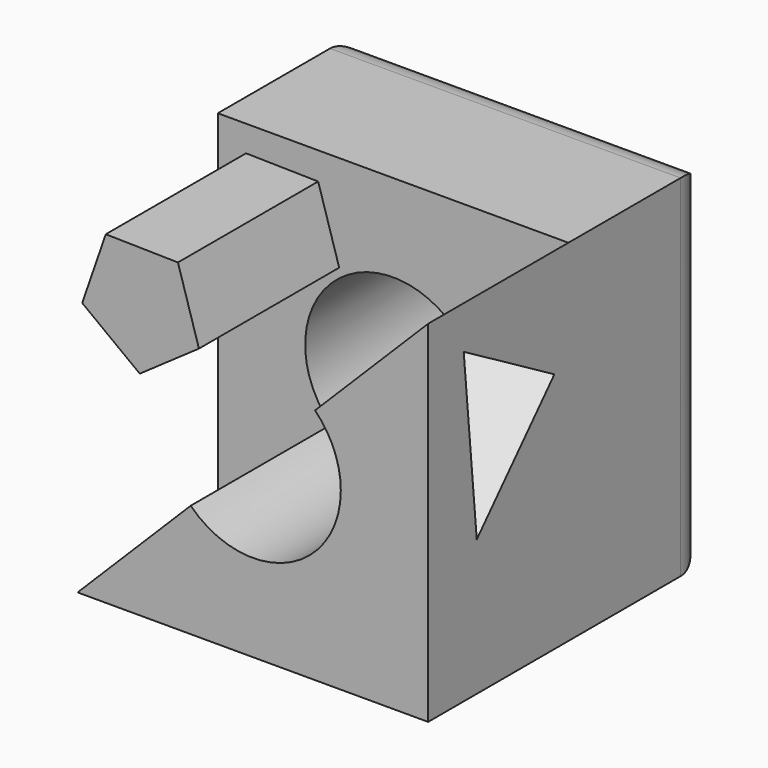
from build123d import *

# Parameters (mm, degrees)
F0_W     = 50
F0_H     = 50
F1_DEPTH = 25
F2_R     = 12.5410475497
F3_DEPTH = 25
F5_DEPTH = 25
F7_DEPTH = 50
F9_DEPTH = 25
F10_R    = 5


with BuildPart() as f1:
    # F0 (on Front) → F1 (new body)
    with BuildSketch(Plane.XZ):
        Rectangle(F0_W, F0_H)
    extrude(amount=F1_DEPTH)

    # F2 (on face) → F3 (cut)
    with BuildSketch(Plane.XZ.offset(25)):
        Circle(F2_R)
    extrude(amount=-F3_DEPTH, mode=Mode.SUBTRACT)

    # F4 (on face) → F5 (join)
    with BuildSketch(Plane.XZ.offset(25)):
        with BuildLine():
            Line((-8.8678597656, -8.8678597656), (-25, -25))
            Line((-25, -25), (25, -25))
            Line((25, -25), (25, 25))
            Line((25, 25), (8.8678597656, 8.8678597656))
            ThreePointArc((8.8678597656, 8.8678597656), (11.5864171474, 4.7992511218), (12.5410475497, 0))
            ThreePointArc((12.5410475497, 0), (4.7992511218, -11.5864171474), (-8.8678597656, -8.8678597656))
        make_face()
    extrude(amount=F5_DEPTH)

    # F6 (on face) → F7 (cut)
    with BuildSketch(Plane(origin=(0, 0, 0), x_dir=(0, -1, 0), z_dir=(-0.7071067812, 0, 0.7071067812))):
        Polygon((28.62248093, -26.3251687907), (35.0618112076, -33.3145719446), (44.3344770349, -31.2326499178), (47.1678125847, -22.1613247372), (40.7284823072, -15.1719215833), (31.4558164798, -17.2538436101), align=None)
        Polygon((27.4971282132, 24.391054001), (41.3385996573, 13.714221481), (43.6642721295, 31.0397036374), align=None)
    extrude(amount=-F7_DEPTH, mode=Mode.SUBTRACT)

    # F8 (on face) → F9 (join)
    with BuildSketch(Plane.XZ.offset(25)):
        Polygon((-20.9768815232, 21.2787960948), (-24.3413792657, 11.5523586689), (-16.1306745515, 5.3468967076), (-7.691682224, 11.2381477254), (-10.6868028491, 21.084603052), align=None)
    extrude(amount=F9_DEPTH)

    # F10
    f10_edges = [f1.edges().sort_by_distance(p)[0] for p in [
        (25, 0, 0),
        (0, 0, 25),
        (-25, 0, 0),
        (0, 0, -25),
    ]]
    fillet(f10_edges, radius=F10_R)


solid = f1.part
